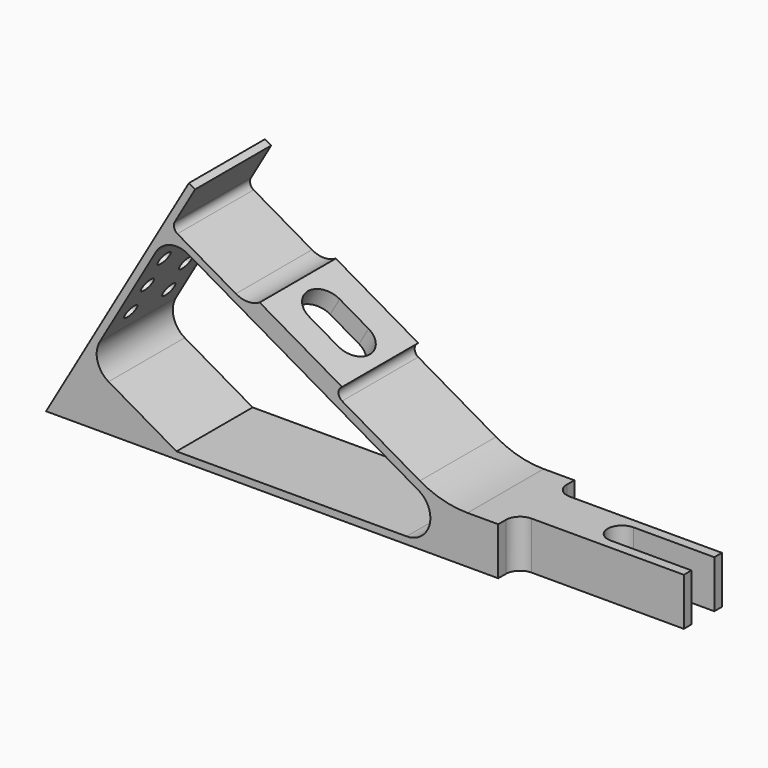
from build123d import *

# Parameters (mm, degrees)
F1_DEPTH  = 10
F4_DEPTH  = 8
F5_R      = 1.5
F6_DEPTH  = 30.83145
F7_R      = 5.5
F7_R_2    = 4.25
F8_DEPTH  = 2
F9_DEPTH  = 112.584302492
F11_DEPTH = 25


with BuildPart() as f1:
    # F0 (on Front) → F1 (new body, symmetric)
    with BuildSketch(Plane.XZ):
        with BuildLine():
            Line((30, 51.9615242271), (0, 0))
            Line((0, 0), (130, 0))
            Line((130, 0), (130, 10))
            Line((130, 10), (88.5384757729, 10))
            ThreePointArc((88.5384757729, 10), (83.3620948709, 10.6814834742), (78.5384757729, 12.6794919243))
            Line((78.5384757729, 12.6794919243), (62.1900542571, 22.1182574873))
            ThreePointArc((62.1900542571, 22.1182574873), (61.4400542571, 23.417295593), (62.1900542571, 24.7163336987))
            Line((62.1900542571, 24.7163336987), (44.8695461814, 34.7163336987))
            ThreePointArc((44.8695461814, 34.7163336987), (42.3695461814, 34.0464607176), (39.8695461814, 34.7163336987))
            Line((39.8695461814, 34.7163336987), (27.5980762114, 41.8012701892))
            ThreePointArc((27.5980762114, 41.8012701892), (26.8991874719, 42.7120797272), (27.0490381057, 43.8503082949))
            Line((27.0490381057, 43.8503082949), (31.2990381057, 51.2115242271))
            Line((31.2990381057, 51.2115242271), (30, 51.9615242271))
        make_face()
        with BuildLine():
            ThreePointArc((13.1291651246, 9.7403810568), (10.7995359932, 12.7764128502), (11.2990381057, 16.5705080757))
            Line((11.2990381057, 16.5705080757), (23.0490381057, 36.9221050646))
            ThreePointArc((23.0490381057, 36.9221050646), (26.0850698991, 39.2517341961), (29.8791651246, 38.7522320835))
            Line((29.8791651246, 38.7522320835), (78.2416697508, 10.8301270189))
            ThreePointArc((78.2416697508, 10.8301270189), (80.5712988822, 5.2059047745), (75.7416697508, 1.5))
            Line((75.7416697508, 1.5), (27.4019237886, 1.5))
            Line((27.4019237886, 1.5), (13.1291651246, 9.7403810568))
        make_face(mode=Mode.SUBTRACT)
    extrude(amount=F1_DEPTH, both=True)

    # F2 (on face) → F4 (cut)
    with BuildSketch(Plane(origin=(26.25, 0, 45.4663336987), x_dir=(0.8660254038, 0, -0.5), z_dir=(0.5, 0, 0.8660254038))):
        with BuildLine():
            ThreePointArc((28, 4), (24, 0), (28, -4))
            Line((28, -4), (35, -4))
            ThreePointArc((35, -4), (39, 0), (35, 4))
            Line((35, 4), (28, 4))
        make_face()
    extrude(amount=-F4_DEPTH, mode=Mode.SUBTRACT)

    # F5 (on offset) → F6 (cut)
    with BuildSketch(Plane(origin=(-21.6506350946, 0, 12.5), x_dir=(0, -1, 0), z_dir=(-0.8660254038, 0, 0.5))):
        with Locations((-5, 39)):
            Circle(F5_R)
        with Locations((5, 39)):
            Circle(F5_R)
        with Locations((-5, 32)):
            Circle(F5_R)
        with Locations((5, 32)):
            Circle(F5_R)
        with Locations((5, 25)):
            Circle(F5_R)
        with Locations((-5, 25)):
            Circle(F5_R)
    extrude(amount=-F6_DEPTH, mode=Mode.SUBTRACT)

    # F7 (on face) → F8 (cut)
    with BuildSketch(Plane(origin=(0, 0, 0), x_dir=(0, -1, 0), z_dir=(-0.8660254038, 0, 0.5))):
        with Locations((0, 9.5)):
            Circle(F7_R)
        with Locations((0, 9.5)):
            Circle(F7_R_2, mode=Mode.SUBTRACT)
    extrude(amount=-F8_DEPTH, mode=Mode.SUBTRACT)

    # F9 (cut, through all): a face of the model
    f9_faces = [f1.faces().sort_by_distance(p)[0] for p in [
        (4.75, 0, 8.227241336),
    ]]
    extrude(f9_faces, amount=-F9_DEPTH, mode=Mode.SUBTRACT)

    # F10 (on face) → F11 (cut)
    with BuildSketch(Plane.XY.offset(10)):
        with BuildLine():
            ThreePointArc((95, 8), (95.8786796564, 5.8786796564), (98, 5))
            Line((98, 5), (130, 5))
            Line((130, 5), (130, 10))
            Line((130, 10), (95, 10))
            Line((95, 10), (95, 8))
        make_face()
        with BuildLine():
            Line((130, -3), (130, 3))
            Line((130, 3), (113, 3))
            ThreePointArc((113, 3), (110, 0), (113, -3))
            Line((113, -3), (130, -3))
        make_face()
        with BuildLine():
            Line((130, -10), (130, -5))
            Line((130, -5), (98, -5))
            ThreePointArc((98, -5), (95.8786796564, -5.8786796564), (95, -8))
            Line((95, -8), (95, -10))
            Line((95, -10), (130, -10))
        make_face()
    extrude(amount=-F11_DEPTH, mode=Mode.SUBTRACT)


solid = f1.part
